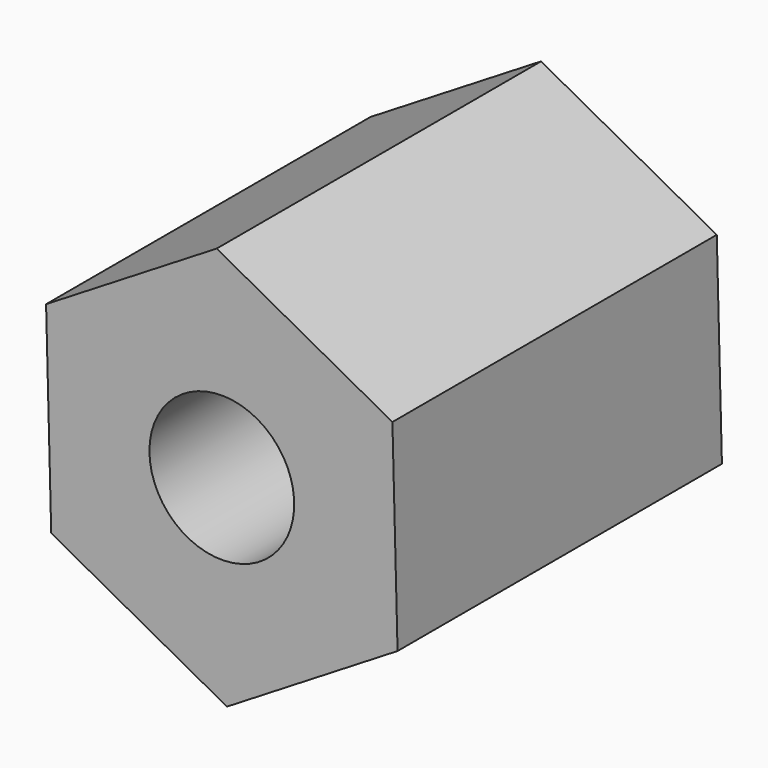
from build123d import *

# Parameters (mm, degrees)
F1_DEPTH = 177.8
F2_D     = 63.5


with BuildPart() as f1:
    # F0 (on Front) → F1 (new body)
    with BuildSketch(Plane.XZ):
        Polygon((2.254191, -87.68663), (77.065945, -41.891128), (74.811753, 45.795502), (-2.254191, 87.68663), (-77.065945, 41.891128), (-74.811753, -45.795502), align=None)
    extrude(amount=F1_DEPTH)

    # F2 (through all)
    with Locations(Plane(origin=(0, 0, 0), x_dir=(1, 0, 0), z_dir=(0, 1, 0))):
        with Locations((0, 0)):
            Hole(F2_D / 2)


solid = f1.part
